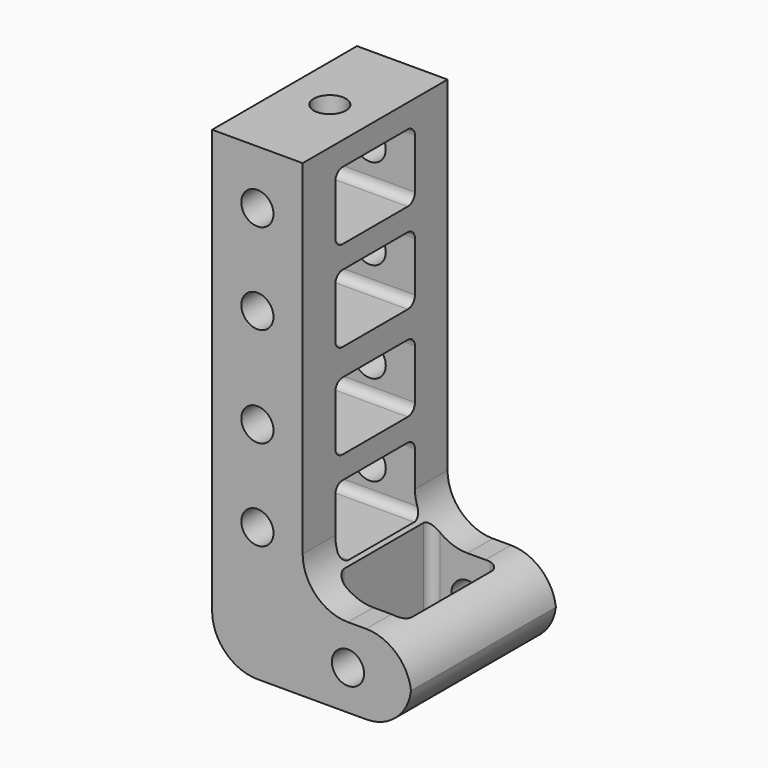
from build123d import *

# Parameters (mm, degrees)
F1_DEPTH      = 20
F0_R          = 1.778
F3_DEPTH      = 25
F3_DEPTH_BACK = 25
F5_DEPTH      = 25
F5_DEPTH_BACK = 25
F6_R          = 1.778
F7_DEPTH      = 2.611541214
F8_R          = 1.778
F9_DEPTH      = 5


with BuildPart() as f1:
    # F0 (on Front) → F1 (new body)
    with BuildSketch(Plane.XZ):
        with BuildLine():
            ThreePointArc((22, -3.7987752631), (21.9909406431, -4.0996265512), (21.963795401, -4.3993876316))
            ThreePointArc((21.963795401, -4.3993876316), (21.9909406431, -4.6991487119), (22, -5))
            Line((22, -5), (22, -3.7987752631))
        make_face()
    extrude(amount=F1_DEPTH)


with BuildPart() as f1b:
    # F0 (on Front) → F1, piece 2 (new body)
    with BuildSketch(Plane.XZ):
        with BuildLine():
            Line((10, 43), (0, 43))
            Line((0, 43), (0, 0))
            Line((0, 0), (0, -3.7987752631))
            ThreePointArc((0, -3.7987752631), (1.4644660941, -7.3343091691), (5, -8.7987752631))
            Line((5, -8.7987752631), (17, -8.7987752631))
            ThreePointArc((17, -8.7987752631), (20.3163939873, -7.5406372222), (21.963795401, -4.3993876316))
            ThreePointArc((21.963795401, -4.3993876316), (20.3163939873, -1.2581380409), (17, 0))
            Line((17, 0), (15, 0))
            ThreePointArc((15, 0), (11.4644660941, 1.4644660941), (10, 5))
            Line((10, 5), (10, 43))
        make_face()
        with Locations((5, 5.9739946499)):
            Circle(F0_R, mode=Mode.SUBTRACT)
        with Locations((5, 15.9739946499)):
            Circle(F0_R, mode=Mode.SUBTRACT)
        with Locations((15, -4.4229245409)):
            Circle(F0_R, mode=Mode.SUBTRACT)
        with Locations((5, 26.9999946499)):
            Circle(F0_R, mode=Mode.SUBTRACT)
        with Locations((5, 36.9999946499)):
            Circle(F0_R, mode=Mode.SUBTRACT)
    extrude(amount=F1_DEPTH)

    # F2 (on face) → F3 (cut, two sides)
    with BuildSketch(Plane.YZ.offset(10)) as f3_sk:
        with BuildLine():
            ThreePointArc((-15.5, 3.430458786), (-15.2071067812, 2.7233520048), (-14.5, 2.430458786))
            Line((-14.5, 2.430458786), (-5.5, 2.430458786))
            ThreePointArc((-5.5, 2.430458786), (-4.7928932188, 2.7233520048), (-4.5, 3.430458786))
            Line((-4.5, 3.430458786), (-4.5, 8.930458786))
            ThreePointArc((-4.5, 8.930458786), (-4.7928932188, 9.6375655672), (-5.5, 9.930458786))
            Line((-5.5, 9.930458786), (-14.5, 9.930458786))
            ThreePointArc((-14.5, 9.930458786), (-15.2071067812, 9.6375655672), (-15.5, 8.930458786))
            Line((-15.5, 8.930458786), (-15.5, 3.430458786))
        make_face()
        with BuildLine():
            Line((-5.5, 19.930458786), (-14.5, 19.930458786))
            ThreePointArc((-14.5, 19.930458786), (-15.2071067812, 19.6375655672), (-15.5, 18.930458786))
            Line((-15.5, 18.930458786), (-15.5, 13.430458786))
            ThreePointArc((-15.5, 13.430458786), (-15.2071067812, 12.7233520048), (-14.5, 12.430458786))
            Line((-14.5, 12.430458786), (-5.5, 12.430458786))
            ThreePointArc((-5.5, 12.430458786), (-4.7928932188, 12.7233520048), (-4.5, 13.430458786))
            Line((-4.5, 13.430458786), (-4.5, 18.930458786))
            ThreePointArc((-4.5, 18.930458786), (-4.7928932188, 19.6375655672), (-5.5, 19.930458786))
        make_face()
        with BuildLine():
            ThreePointArc((-14.5, 40.388458786), (-15.2071067812, 40.0955655672), (-15.5, 39.388458786))
            Line((-15.5, 39.388458786), (-15.5, 33.888458786))
            ThreePointArc((-15.5, 33.888458786), (-15.2071067812, 33.1813520048), (-14.5, 32.888458786))
            Line((-14.5, 32.888458786), (-5.5, 32.888458786))
            ThreePointArc((-5.5, 32.888458786), (-4.7928932188, 33.1813520048), (-4.5, 33.888458786))
            Line((-4.5, 33.888458786), (-4.5, 39.388458786))
            ThreePointArc((-4.5, 39.388458786), (-4.7928932188, 40.0955655672), (-5.5, 40.388458786))
            Line((-5.5, 40.388458786), (-14.5, 40.388458786))
        make_face()
        with BuildLine():
            ThreePointArc((-14.5, 30.388458786), (-15.2071067812, 30.0955655672), (-15.5, 29.388458786))
            Line((-15.5, 29.388458786), (-15.5, 23.888458786))
            ThreePointArc((-15.5, 23.888458786), (-15.2071067812, 23.1813520048), (-14.5, 22.888458786))
            Line((-14.5, 22.888458786), (-5.5, 22.888458786))
            ThreePointArc((-5.5, 22.888458786), (-4.7928932188, 23.1813520048), (-4.5, 23.888458786))
            Line((-4.5, 23.888458786), (-4.5, 29.388458786))
            ThreePointArc((-4.5, 29.388458786), (-4.7928932188, 30.0955655672), (-5.5, 30.388458786))
            Line((-5.5, 30.388458786), (-14.5, 30.388458786))
        make_face()
    extrude(amount=-F3_DEPTH, mode=Mode.SUBTRACT)
    extrude(f3_sk.sketch, amount=F3_DEPTH_BACK, mode=Mode.SUBTRACT)

    # F4 (on face) → F5 (cut, two sides)
    with BuildSketch(Plane.XY) as f5_sk:
        with BuildLine():
            Line((11.963795401, -16.5), (17.463795401, -16.5))
            ThreePointArc((17.463795401, -16.5), (18.1709021822, -16.2071067812), (18.463795401, -15.5))
            Line((18.463795401, -15.5), (18.463795401, -4.5))
            ThreePointArc((18.463795401, -4.5), (18.1709021822, -3.7928932188), (17.463795401, -3.5))
            Line((17.463795401, -3.5), (11.963795401, -3.5))
            ThreePointArc((11.963795401, -3.5), (11.2566886198, -3.7928932188), (10.963795401, -4.5))
            Line((10.963795401, -4.5), (10.963795401, -15.5))
            ThreePointArc((10.963795401, -15.5), (11.2566886198, -16.2071067812), (11.963795401, -16.5))
        make_face()
    extrude(amount=-F5_DEPTH, mode=Mode.SUBTRACT)
    extrude(f5_sk.sketch, amount=F5_DEPTH_BACK, mode=Mode.SUBTRACT)

    # F6 (on face) → F7 (join, through all)
    with BuildSketch(Plane.XY.offset(43)):
        with Locations((5, -13.5)):
            Circle(F6_R)
        with Locations((5, -6.5)):
            Circle(F6_R)
    extrude(amount=-F7_DEPTH)

    # F8 (on face) → F9 (cut)
    with BuildSketch(Plane.XY.offset(43)):
        with Locations((5, -10)):
            Circle(F8_R)
    extrude(amount=-F9_DEPTH, mode=Mode.SUBTRACT)


solid = f1b.part
